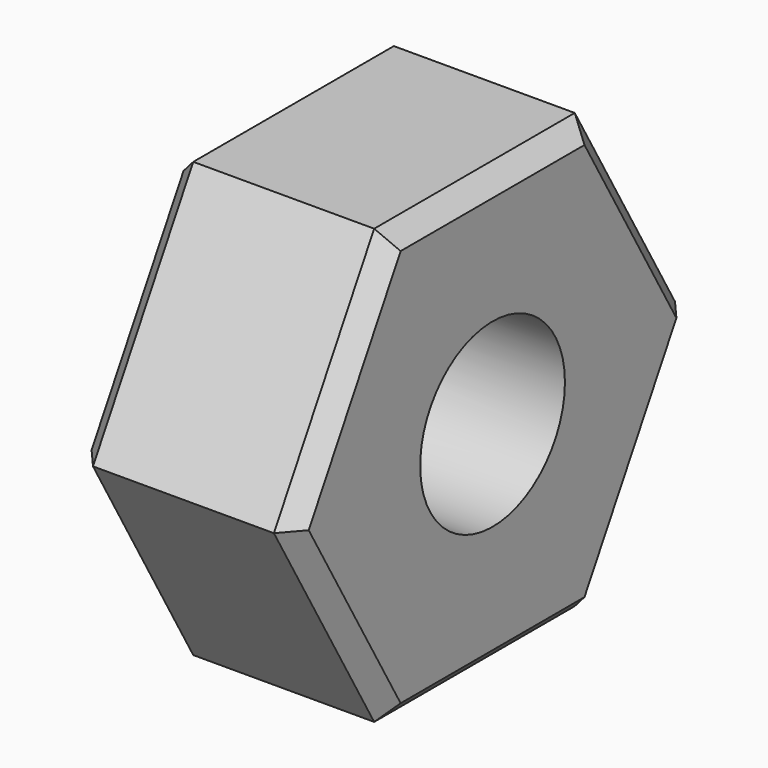
from build123d import *

# Parameters (mm, degrees)
F0_R     = 2.5
F3_DEPTH = 5
F1_R     = 1
F4_DEPTH = 5
F5_DEPTH = 5
F2_R     = 1
F6_DEPTH = 5
F7_DEPTH = 5
F8_SIZE  = 0.5
F9_DEPTH = 1
F10_SIZE = 0.5


with BuildPart() as f3:
    # F0 (on Right) → F3 (new body)
    with BuildSketch(Plane.YZ):
        Polygon((3.4641016151, 6), (-3.4641016151, 6), (-6.9282032303, 0), (-3.4641016151, -6), (3.4641016151, -6), (6.9282032303, 0), align=None)
        Circle(F0_R, mode=Mode.SUBTRACT)
    extrude(amount=F3_DEPTH)

    # F1 (on Front) → F4 (cut)
    with BuildSketch(Plane.XZ):
        Circle(F1_R)
    extrude(amount=-F4_DEPTH, mode=Mode.SUBTRACT)

    # F1 (on Front) → F5 (cut)
    with BuildSketch(Plane.XZ):
        Circle(F1_R)
    extrude(amount=F5_DEPTH, mode=Mode.SUBTRACT)

    # F2 (on Top) → F6 (cut)
    with BuildSketch(Plane.XY):
        Circle(F2_R)
    extrude(amount=-F6_DEPTH, mode=Mode.SUBTRACT)

    # F2 (on Top) → F7 (cut)
    with BuildSketch(Plane.XY):
        Circle(F2_R)
    extrude(amount=F7_DEPTH, mode=Mode.SUBTRACT)

    # F8
    f8_edges = [f3.edges().sort_by_distance(p)[0] for p in [
        (5, 0, -6),
        (5, 5.196152, -3),
        (5, 5.196152, 3),
        (5, 0, 6),
        (5, -5.196152, 3),
        (5, -5.196152, -3),
    ]]
    chamfer(f8_edges, length=F8_SIZE)

    # F9 (add): a face of the model
    f9_faces = [f3.faces().sort_by_distance(p)[0] for p in [
        (0, 5.037407344, 2.9083484861),
    ]]
    extrude(f9_faces, amount=F9_DEPTH)

    # F10
    f10_edges = [f3.edges().sort_by_distance(p)[0] for p in [
        (-1, -5.196152, -3),
        (-1, 5.196152, -3),
        (-1, 0, -6),
        (-1, 0, 6),
        (-1, 5.196152, 3),
        (-1, -5.196152, 3),
    ]]
    chamfer(f10_edges, length=F10_SIZE)


solid = f3.part
